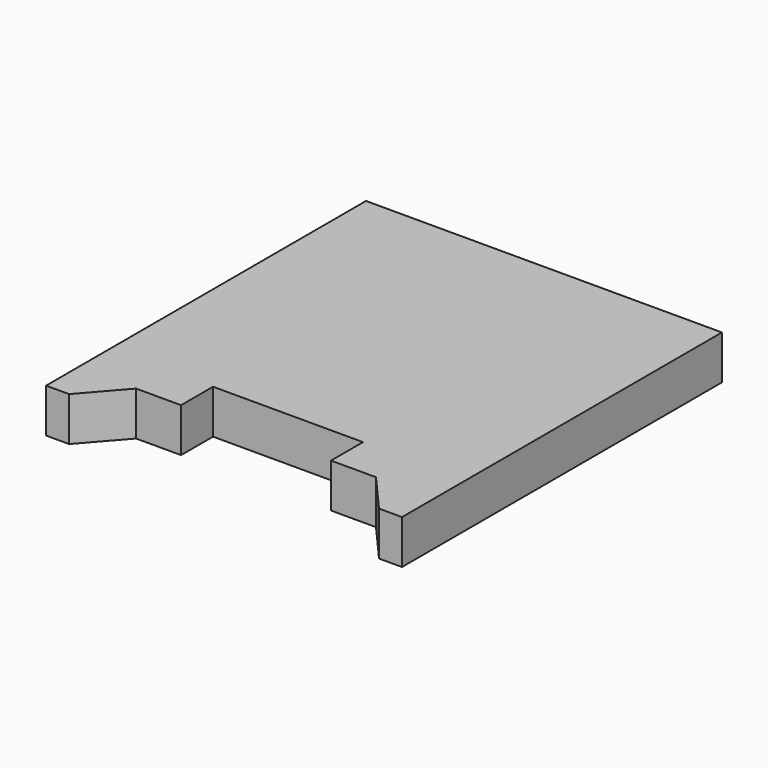
from build123d import *

# Parameters (mm, degrees)
PAD_DEPTH = 2.2


with BuildPart() as part:
    # Sketch → Pad (new body)
    with BuildSketch(Plane.XY):
        Polygon((-3.75, -16), (3.75, -16), (3.75, -18), (6, -18), (7.75, -20), (8.9, -20), (8.9, 0), (-8.9, 0), (-8.9, -20), (-7.75, -20), (-6, -18), (-3.75, -18), align=None)
    extrude(amount=PAD_DEPTH)


solid = part.part
